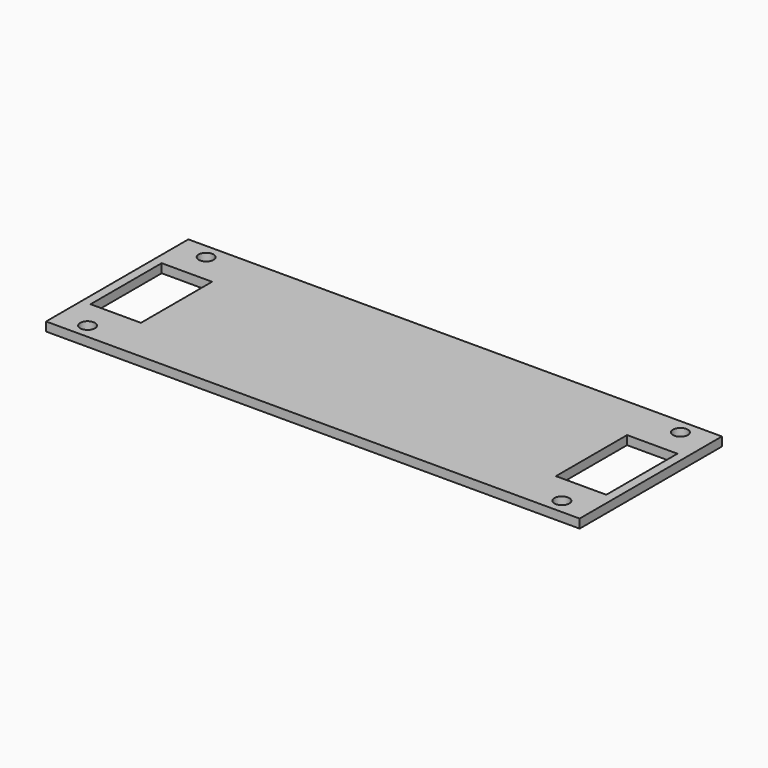
from build123d import *

# Parameters (mm, degrees)
SKETCH_W   = 180
SKETCH_H   = 60
SKETCH_R   = 2.5
SKETCH_W_2 = 17
SKETCH_H_2 = 30
PAD_DEPTH  = 3


with BuildPart() as part:
    # Sketch → Pad (new body)
    with BuildSketch(Plane.XY):
        with Locations((90, 30)):
            Rectangle(SKETCH_W, SKETCH_H)
        with Locations((10, 55)):
            Circle(SKETCH_R, mode=Mode.SUBTRACT)
        with Locations((170, 55)):
            Circle(SKETCH_R, mode=Mode.SUBTRACT)
        with Locations((170, 5)):
            Circle(SKETCH_R, mode=Mode.SUBTRACT)
        with Locations((10, 5)):
            Circle(SKETCH_R, mode=Mode.SUBTRACT)
        with Locations((11.5, 30)):
            Rectangle(SKETCH_W_2, SKETCH_H_2, mode=Mode.SUBTRACT)
        with Locations((168.5, 30)):
            Rectangle(SKETCH_W_2, SKETCH_H_2, mode=Mode.SUBTRACT)
    extrude(amount=PAD_DEPTH)


solid = part.part
